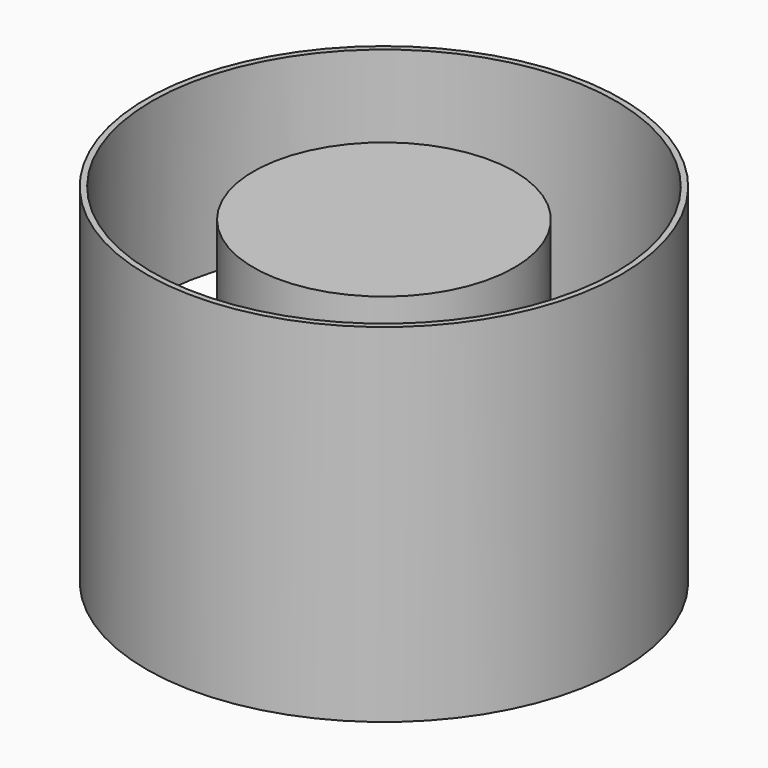
from build123d import *

# Parameters (mm, degrees)
F0_R     = 22.5
F1_DEPTH = 25
F0_R_2   = 41
F0_R_3   = 40
F2_DEPTH = 30
F4_DEPTH = 12.5
F5_DEPTH = 25


with BuildPart() as f1:
    # F0 (on Top) → F1 (new body, symmetric)
    with BuildSketch(Plane.XY):
        Circle(F0_R)
    extrude(amount=F1_DEPTH, both=True)


with BuildPart() as f2:
    # F0 (on Top) → F2 (new body, symmetric)
    with BuildSketch(Plane.XY):
        Circle(F0_R_2)
        Circle(F0_R_3, mode=Mode.SUBTRACT)
    extrude(amount=F2_DEPTH, both=True)

    # F3 (on Top) → F4 (join, symmetric)
    with BuildSketch(Plane.XY):
        Polygon((-34.0911263885, 22.7770740343), (-33.6312304821, 21.6550302762), (-24.8035956174, 0), (-23.5966462642, 0), (-32.8816802861, 22.7770740343), align=None)
    extrude(amount=F4_DEPTH, both=True)

    # F3 (on Top) → F5 (cut)
    with BuildSketch(Plane.XY):
        with BuildLine():
            ThreePointArc((-40, 0), (-38.3747913303, 11.2860706341), (-33.6312304821, 21.6550302762))
            Line((-33.6312304821, 21.6550302762), (-34.0911263885, 22.7770740343))
            ThreePointArc((-34.0911263885, 22.7770740343), (-39.234781648, 11.9009205121), (-41, 0))
            Line((-41, 0), (-40, 0))
        make_face()
    extrude(amount=-F5_DEPTH, mode=Mode.SUBTRACT)


solid = Compound([f1.part, f2.part])
